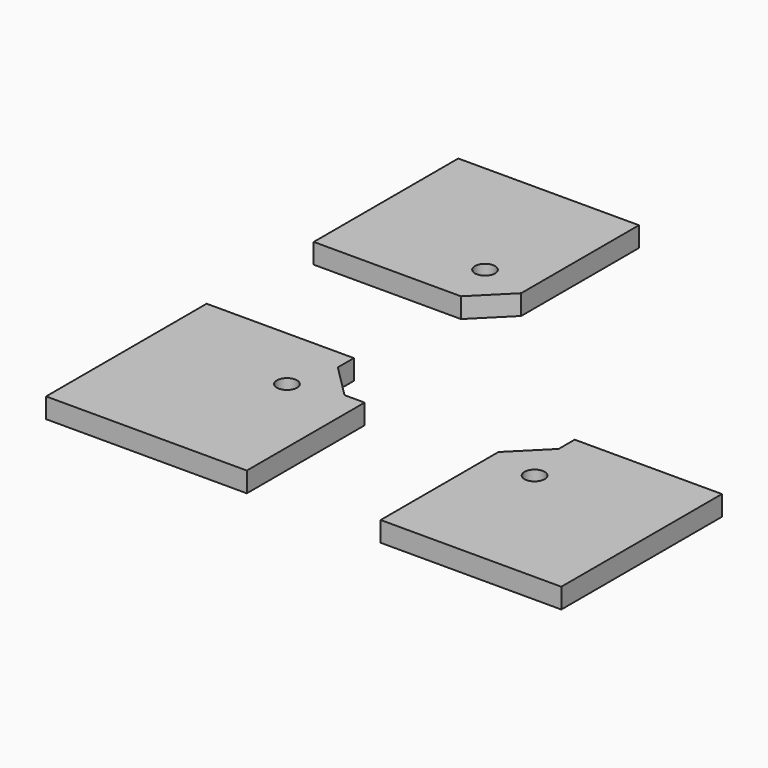
from build123d import *

# Parameters (mm, degrees)
F0_R     = 1.5
F1_DEPTH = 3


with BuildPart() as f1:
    # F0 (on Top) → F1 (new body)
    with BuildSketch(Plane.XY):
        Polygon((-2.903625, 7.854014), (-24.903625, 7.854014), (-24.903625, -22.145986), (5.096375, -22.145986), (5.096375, -0.145986), (2.096375, -0.145986), (-2.903625, 4.854014), align=None)
        with Locations((-4.903625, -2.145986)):
            Circle(F0_R, mode=Mode.SUBTRACT)
        Polygon((52.096375, 7.854014), (30.096375, 7.854014), (30.096375, 4.854014), (25.096375, -0.145986), (25.096375, -22.145986), (52.096375, -22.145986), align=None)
        with Locations((32.096375, -2.145986)):
            Circle(F0_R, mode=Mode.SUBTRACT)
        Polygon((2.096375, 54.854014), (-24.903625, 54.854014), (-24.903625, 27.854014), (-2.903625, 27.854014), (2.096375, 32.854014), align=None)
        with Locations((-4.903625, 34.854014)):
            Circle(F0_R, mode=Mode.SUBTRACT)
    extrude(amount=F1_DEPTH)


solid = f1.part
